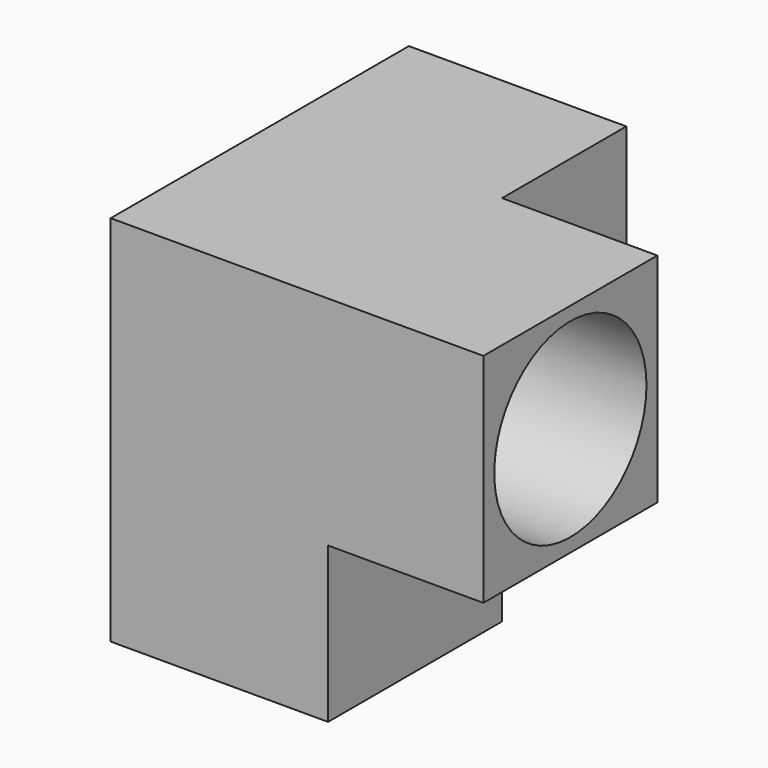
from build123d import *

# Parameters (mm, degrees)
F0_W      = 28
F0_H      = 28
F1_DEPTH  = 48
F2_W      = 28
F2_H      = 28
F3_DEPTH  = 48
F4_W      = 28
F4_H      = 28
F5_DEPTH  = 48
F6_R      = 12.25
F7_DEPTH  = 20
F8_R      = 12.25
F9_DEPTH  = 20
F10_R     = 12.25
F11_DEPTH = 20


with BuildPart() as f1:
    # F0 (on Right) → F1 (new body)
    with BuildSketch(Plane.YZ):
        Rectangle(F0_W, F0_H)
    extrude(amount=F1_DEPTH)

    # F2 (on face) → F3 (join)
    with BuildSketch(Plane.XZ.offset(14)):
        with Locations((14, 0)):
            Rectangle(F2_W, F2_H)
    extrude(amount=-F3_DEPTH)

    # F4 (on face) → F5 (join)
    with BuildSketch(Plane.XY.offset(14)):
        with Locations((14, 0)):
            Rectangle(F4_W, F4_H)
    extrude(amount=-F5_DEPTH)

    # F6 (on face) → F7 (cut)
    with BuildSketch(Plane.YZ.offset(48)):
        Circle(F6_R)
    extrude(amount=-F7_DEPTH, mode=Mode.SUBTRACT)

    # F8 (on face) → F9 (cut)
    with BuildSketch(Plane(origin=(0, 34, 0), x_dir=(-1, 0, 0), z_dir=(0, 1, 0))):
        with Locations((-14, 0)):
            Circle(F8_R)
    extrude(amount=-F9_DEPTH, mode=Mode.SUBTRACT)

    # F10 (on face) → F11 (cut)
    with BuildSketch(Plane(origin=(0, 0, -34), x_dir=(1, 0, 0), z_dir=(0, 0, -1))):
        with Locations((14, 0)):
            Circle(F10_R)
    extrude(amount=-F11_DEPTH, mode=Mode.SUBTRACT)


solid = f1.part
